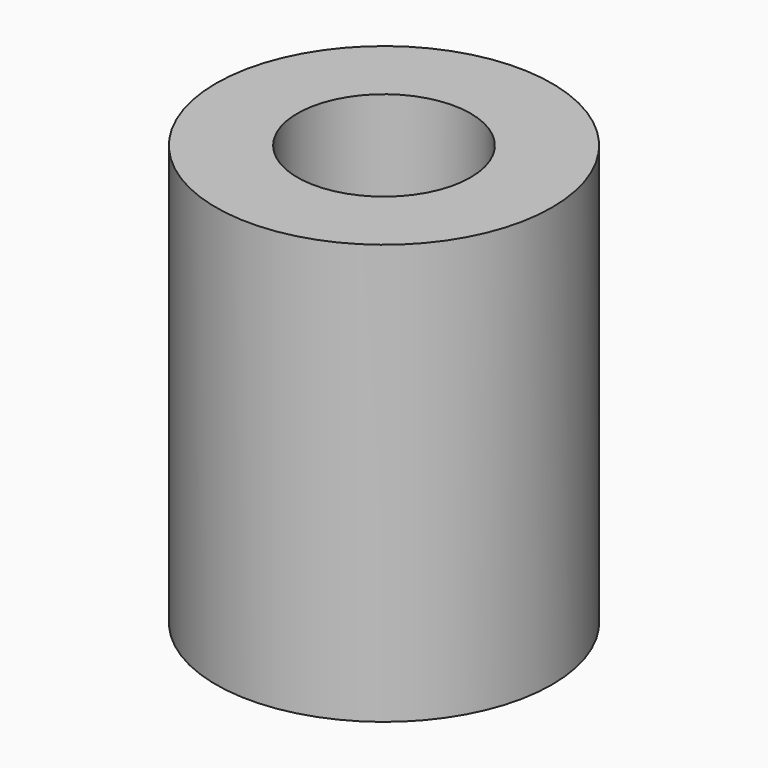
from build123d import *

# Parameters (mm, degrees)
SKETCH_R   = 8
SKETCH_R_2 = 4.125
PAD_DEPTH  = 20


with BuildPart() as part:
    # Sketch → Pad (new body)
    with BuildSketch(Plane.XY):
        Circle(SKETCH_R)
        Circle(SKETCH_R_2, mode=Mode.SUBTRACT)
    extrude(amount=PAD_DEPTH)


solid = part.part
